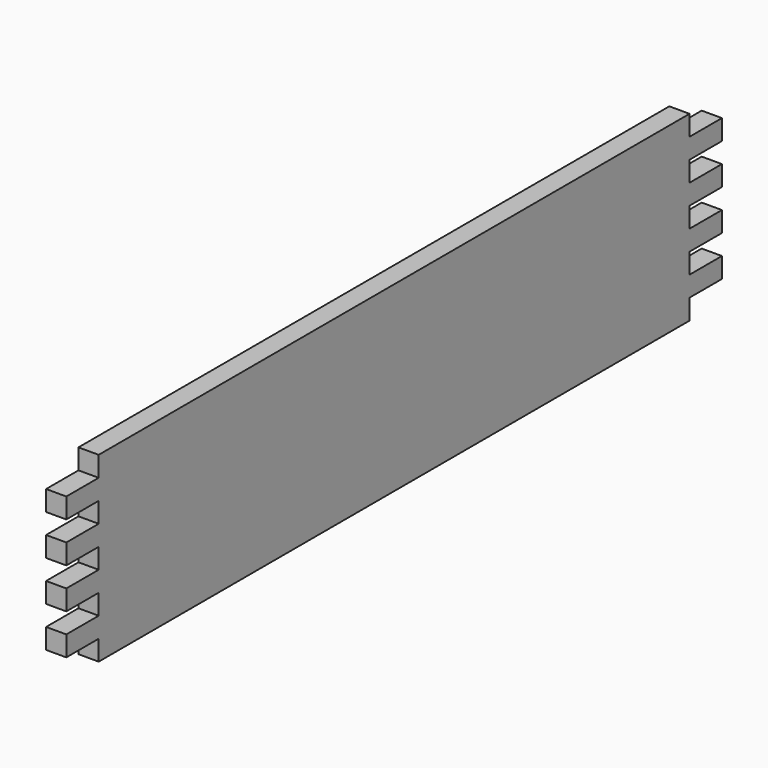
from build123d import *

# Parameters (mm, degrees)
F1_DEPTH = 6.35


with BuildPart() as f1:
    # F0 (on Right) → F1 (new body)
    with BuildSketch(Plane.YZ):
        Polygon((64.29375, 28.575), (-51.59375, 28.575), (-51.59375, 22.225), (-64.29375, 22.225), (-64.29375, 15.875), (-51.59375, 15.875), (-51.59375, 9.525), (-64.29375, 9.525), (-64.29375, 3.175), (-51.59375, 3.175), (-51.59375, -3.175), (-64.29375, -3.175), (-64.29375, -9.525), (-51.59375, -9.525), (-51.59375, -15.875), (-64.29375, -15.875), (-64.29375, -22.225), (-51.59375, -22.225), (-51.59375, -28.575), (64.29375, -28.575), align=None)
        Polygon((180.18125, 28.575), (64.29375, 28.575), (64.29375, -28.575), (180.18125, -28.575), (180.18125, -22.225), (192.88125, -22.225), (192.88125, -15.875), (180.18125, -15.875), (180.18125, -9.525), (192.88125, -9.525), (192.88125, -3.175), (180.18125, -3.175), (180.18125, 3.175), (192.88125, 3.175), (192.88125, 9.525), (180.18125, 9.525), (180.18125, 15.875), (192.88125, 15.875), (192.88125, 22.225), (180.18125, 22.225), align=None)
    extrude(amount=F1_DEPTH)


solid = f1.part
